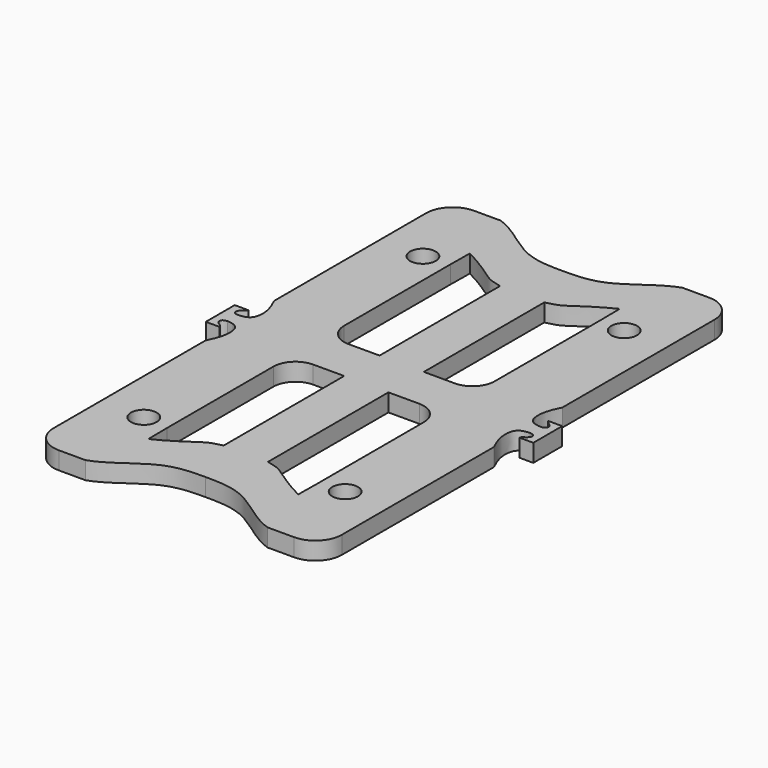
from build123d import *

# Parameters (mm, degrees)
F0_R     = 1.45
F1_DEPTH = 2


with BuildPart() as f1:
    # F0 (on Top) → F1 (new body)
    with BuildSketch(Plane.XY):
        with BuildLine():
            Line((16.0432131672, 48.2310554204), (13.0458830723, 48.2310554204))
            ThreePointArc((13.0458830723, 48.2310554204), (10.9245627287, 47.352375764), (10.0458830723, 45.2310554204))
            Line((10.0458830723, 45.2310554204), (10.0458830723, 23.7476840101))
            add(Edge.make_bspline(
                [(10.0458830723, 23.7476840101), (10.7115456302, 22.4846217094), (11.005823731, 20.7161298766), (10.3430984406, 19.7198280209), (9.2372713755, 19.6688592385)],
                knots=[0, 0, 0, 0, 0.5644517657, 1, 1, 1, 1], degree=3))
            add(Edge.make_bspline(
                [(9.3841085265, 20.9630623411), (9.4691643546, 20.7871442379), (8.4748883735, 20.4145718213), (8.6683240442, 19.7080140495), (9.2372713755, 19.6688592385)],
                knots=[0, 0, 0, 0, 0.5139461709, 1, 1, 1, 1], degree=3))
            Line((9.3841085265, 20.9630623411), (8.2844858954, 20.9630623411))
            Line((8.2844858954, 20.9630623411), (7.8372713755, 20.9630623411))
            Line((7.8372713755, 20.9630623411), (7.8372713755, 18.9225599587))
            Line((7.8372713755, 18.9225599587), (26.3372713755, 18.9225599587))
            Line((26.3372713755, 18.9225599587), (26.3372713755, 44.1340877949))
            add(Edge.make_bspline(
                [(16.0432131672, 48.2310554204), (17.9878656476, 47.6235912963), (21.4636227702, 44.1599026946), (24.841907136, 44.140700061), (26.3372713755, 44.1340877949)],
                knots=[0.341159936, 0.341159936, 0.341159936, 0.341159936, 0.6993169326, 1, 1, 1, 1], degree=3))
        make_face()
        with BuildLine():
            add(Edge.make_bspline(
                [(23.8372713755, 38.432449385), (22.5156090399, 38.7503102684), (22.055353444, 39.0385909711), (19.4297470837, 40.8717350173), (17.8784877062, 41.6118882482)],
                knots=[0.0042165568, 0.0042165568, 0.0042165568, 0.0042165568, 0.4134444878, 1, 1, 1, 1], degree=3))
            Line((23.8372713755, 38.432449385), (23.8372713755, 23.1634433148))
            Line((23.8372713755, 23.1634433148), (23.8372713755, 21.4225599587))
            Line((23.8372713755, 21.4225599587), (22.228775843, 21.4225599587))
            Line((22.228775843, 21.4225599587), (20.3372713755, 21.4225599587))
            ThreePointArc((20.3372713755, 21.4225599587), (18.5695044225, 22.1547930057), (17.8372713755, 23.9225599587))
            Line((17.8372713755, 23.9225599587), (17.8372713755, 38.9225599587))
            Line((17.8372713755, 38.9225599587), (17.8691951823, 41.617109993))
            Line((17.8691951823, 41.617109993), (17.8784877062, 41.6118882482))
        make_face(mode=Mode.SUBTRACT)
        with Locations((14.9654557983, 38.6260170906)):
            Circle(F0_R, mode=Mode.SUBTRACT)
        with BuildLine():
            add(Edge.make_bspline(
                [(36.6313295837, 48.2310554204), (34.6866771033, 47.6235912963), (31.2109199807, 44.1599026946), (27.8326356149, 44.140700061), (26.3372713755, 44.1340877949)],
                knots=[0.341159936, 0.341159936, 0.341159936, 0.341159936, 0.6993169326, 1, 1, 1, 1], degree=3))
            Line((26.3372713755, 44.1340877949), (26.3372713755, 18.9225599587))
            Line((26.3372713755, 18.9225599587), (44.8372713755, 18.9225599587))
            Line((44.8372713755, 18.9225599587), (44.8372713755, 20.9630623411))
            Line((44.8372713755, 20.9630623411), (44.3900568555, 20.9630623411))
            Line((44.3900568555, 20.9630623411), (43.2904342244, 20.9630623411))
            add(Edge.make_bspline(
                [(43.2904342244, 20.9630623411), (43.2053783963, 20.7871442379), (44.1996543774, 20.4145718213), (44.0062187067, 19.7080140495), (43.4372713755, 19.6688592385)],
                knots=[0, 0, 0, 0, 0.5139461709, 1, 1, 1, 1], degree=3))
            add(Edge.make_bspline(
                [(42.6286596786, 23.7476840101), (41.9629971207, 22.4846217094), (41.6687190199, 20.7161298766), (42.3314443103, 19.7198280209), (43.4372713755, 19.6688592385)],
                knots=[0, 0, 0, 0, 0.5644517657, 1, 1, 1, 1], degree=3))
            Line((42.6286596786, 23.7476840101), (42.6286596786, 45.2310554204))
            ThreePointArc((42.6286596786, 45.2310554204), (41.7499800222, 47.352375764), (39.6286596786, 48.2310554204))
            Line((39.6286596786, 48.2310554204), (36.6313295837, 48.2310554204))
        make_face()
        with BuildLine():
            add(Edge.make_bspline(
                [(28.8372713755, 38.432449385), (30.158933711, 38.7503102684), (30.619189307, 39.0385909711), (33.2447956672, 40.8717350173), (34.7960550447, 41.6118882482)],
                knots=[0.0042165568, 0.0042165568, 0.0042165568, 0.0042165568, 0.4134444878, 1, 1, 1, 1], degree=3))
            Line((34.7960550447, 41.6118882482), (34.8053475686, 41.617109993))
            Line((34.8053475686, 41.617109993), (34.8372713755, 38.9225599587))
            Line((34.8372713755, 38.9225599587), (34.8372713755, 23.9225599587))
            ThreePointArc((34.8372713755, 23.9225599587), (34.1050383284, 22.1547930057), (32.3372713755, 21.4225599587))
            Line((32.3372713755, 21.4225599587), (30.4457669079, 21.4225599587))
            Line((30.4457669079, 21.4225599587), (28.8372713755, 21.4225599587))
            Line((28.8372713755, 21.4225599587), (28.8372713755, 23.1634433148))
            Line((28.8372713755, 23.1634433148), (28.8372713755, 38.432449385))
        make_face(mode=Mode.SUBTRACT)
        with Locations((37.7090869526, 38.6260170906)):
            Circle(F0_R, mode=Mode.SUBTRACT)
        with BuildLine():
            Line((44.8372713755, 18.9225599587), (26.3372713755, 18.9225599587))
            Line((26.3372713755, 18.9225599587), (26.3372713755, -6.2889678775))
            add(Edge.make_bspline(
                [(36.6313295837, -10.3859355031), (34.6866771033, -9.7784713789), (31.2109199807, -6.3147827772), (27.8326356149, -6.2955801437), (26.3372713755, -6.2889678775)],
                knots=[0.341159936, 0.341159936, 0.341159936, 0.341159936, 0.6993169326, 1, 1, 1, 1], degree=3))
            Line((36.6313295837, -10.3859355031), (39.6286596786, -10.3859355031))
            ThreePointArc((39.6286596786, -10.3859355031), (41.7499800222, -9.5072558467), (42.6286596786, -7.3859355031))
            Line((42.6286596786, -7.3859355031), (42.6286596786, 14.0974359072))
            add(Edge.make_bspline(
                [(42.6286596786, 14.0974359072), (41.9629971207, 15.3604982079), (41.6687190199, 17.1289900407), (42.3314443103, 18.1252918964), (43.4372713755, 18.1762606788)],
                knots=[0, 0, 0, 0, 0.5644517657, 1, 1, 1, 1], degree=3))
            add(Edge.make_bspline(
                [(43.2904342244, 16.8820575762), (43.2053783963, 17.0579756794), (44.1996543774, 17.430548096), (44.0062187067, 18.1371058678), (43.4372713755, 18.1762606788)],
                knots=[0, 0, 0, 0, 0.5139461709, 1, 1, 1, 1], degree=3))
            Line((43.2904342244, 16.8820575762), (44.3900568555, 16.8820575762))
            Line((44.3900568555, 16.8820575762), (44.8372713755, 16.8820575762))
            Line((44.8372713755, 16.8820575762), (44.8372713755, 18.9225599587))
        make_face()
        with Locations((37.7090869526, -0.7808971733)):
            Circle(F0_R, mode=Mode.SUBTRACT)
        with BuildLine():
            Line((34.8053475686, -3.7719900757), (34.7960550447, -3.7667683309))
            add(Edge.make_bspline(
                [(28.8372713755, -0.5873294677), (30.158933711, -0.9051903511), (30.619189307, -1.1934710537), (33.2447956672, -3.0266151), (34.7960550447, -3.7667683309)],
                knots=[0.0042165568, 0.0042165568, 0.0042165568, 0.0042165568, 0.4134444878, 1, 1, 1, 1], degree=3))
            Line((28.8372713755, -0.5873294677), (28.8372713755, 14.6816766025))
            Line((28.8372713755, 14.6816766025), (28.8372713755, 16.4225599587))
            Line((28.8372713755, 16.4225599587), (30.4457669079, 16.4225599587))
            Line((30.4457669079, 16.4225599587), (32.3372713755, 16.4225599587))
            ThreePointArc((32.3372713755, 16.4225599587), (34.1050383284, 15.6903269116), (34.8372713755, 13.9225599587))
            Line((34.8372713755, 13.9225599587), (34.8372713755, -1.0774400413))
            Line((34.8372713755, -1.0774400413), (34.8053475686, -3.7719900757))
        make_face(mode=Mode.SUBTRACT)
        with BuildLine():
            Line((26.3372713755, -6.2889678775), (26.3372713755, 18.9225599587))
            Line((26.3372713755, 18.9225599587), (7.8372713755, 18.9225599587))
            Line((7.8372713755, 18.9225599587), (7.8372713755, 16.8820575762))
            Line((7.8372713755, 16.8820575762), (8.2844858954, 16.8820575762))
            Line((8.2844858954, 16.8820575762), (9.3841085265, 16.8820575762))
            add(Edge.make_bspline(
                [(9.3841085265, 16.8820575762), (9.4691643546, 17.0579756794), (8.4748883735, 17.430548096), (8.6683240442, 18.1371058678), (9.2372713755, 18.1762606788)],
                knots=[0, 0, 0, 0, 0.5139461709, 1, 1, 1, 1], degree=3))
            add(Edge.make_bspline(
                [(10.0458830723, 14.0974359072), (10.7115456302, 15.3604982079), (11.005823731, 17.1289900407), (10.3430984406, 18.1252918964), (9.2372713755, 18.1762606788)],
                knots=[0, 0, 0, 0, 0.5644517657, 1, 1, 1, 1], degree=3))
            Line((10.0458830723, 14.0974359072), (10.0458830723, -7.3859355031))
            ThreePointArc((10.0458830723, -7.3859355031), (10.9245627287, -9.5072558467), (13.0458830723, -10.3859355031))
            Line((13.0458830723, -10.3859355031), (16.0432131672, -10.3859355031))
            add(Edge.make_bspline(
                [(16.0432131672, -10.3859355031), (17.9878656476, -9.7784713789), (21.4636227702, -6.3147827772), (24.841907136, -6.2955801437), (26.3372713755, -6.2889678775)],
                knots=[0.341159936, 0.341159936, 0.341159936, 0.341159936, 0.6993169326, 1, 1, 1, 1], degree=3))
        make_face()
        with Locations((14.9654557983, -0.7808971733)):
            Circle(F0_R, mode=Mode.SUBTRACT)
        with BuildLine():
            add(Edge.make_bspline(
                [(23.8372713755, -0.5873294677), (22.5156090399, -0.9051903511), (22.055353444, -1.1934710537), (19.4297470837, -3.0266151), (17.8784877062, -3.7667683309)],
                knots=[0.0042165568, 0.0042165568, 0.0042165568, 0.0042165568, 0.4134444878, 1, 1, 1, 1], degree=3))
            Line((17.8784877062, -3.7667683309), (17.8691951823, -3.7719900757))
            Line((17.8691951823, -3.7719900757), (17.8372713755, -1.0774400413))
            Line((17.8372713755, -1.0774400413), (17.8372713755, 13.9225599587))
            ThreePointArc((17.8372713755, 13.9225599587), (18.5695044225, 15.6903269116), (20.3372713755, 16.4225599587))
            Line((20.3372713755, 16.4225599587), (22.228775843, 16.4225599587))
            Line((22.228775843, 16.4225599587), (23.8372713755, 16.4225599587))
            Line((23.8372713755, 16.4225599587), (23.8372713755, 14.6816766025))
            Line((23.8372713755, 14.6816766025), (23.8372713755, -0.5873294677))
        make_face(mode=Mode.SUBTRACT)
    extrude(amount=F1_DEPTH)


solid = f1.part
